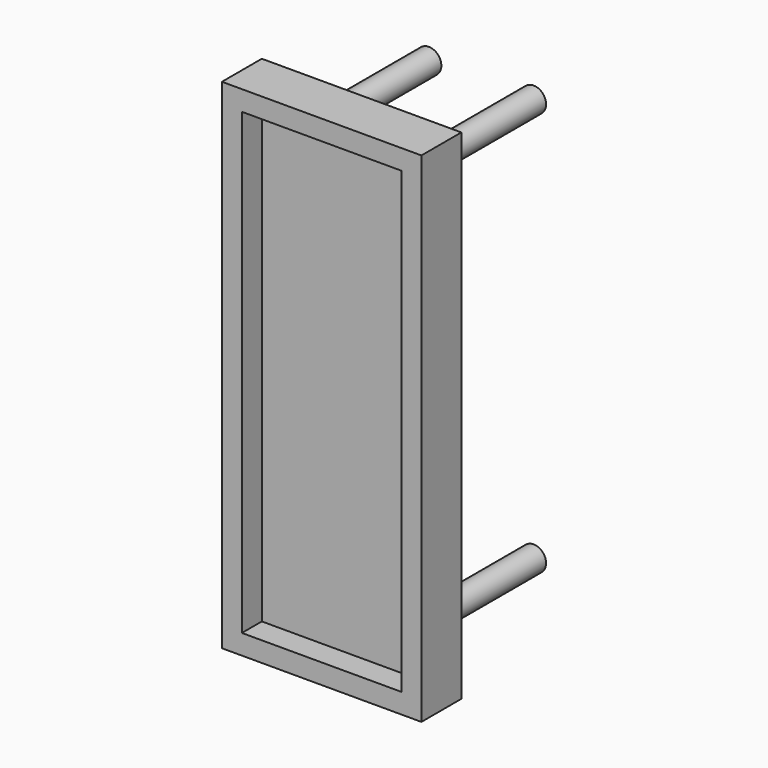
from build123d import *

# Parameters (mm, degrees)
F0_W     = 40.64
F0_H     = 116.84
F1_DEPTH = 6.35
F0_W_2   = 50.8
F0_H_2   = 127
F2_DEPTH = 12.7
F3_R     = 3.175
F4_DEPTH = 38.1


with BuildPart() as f1:
    # F0 (on Front) → F1 (new body)
    with BuildSketch(Plane.XZ):
        Rectangle(F0_W, F0_H)
    extrude(amount=F1_DEPTH)

    # F0 (on Front) → F2 (join)
    with BuildSketch(Plane.XZ):
        Rectangle(F0_W_2, F0_H_2)
        Rectangle(F0_W, F0_H, mode=Mode.SUBTRACT)
    extrude(amount=F2_DEPTH)

    # F3 (on face) → F4 (join)
    with BuildSketch(Plane.XZ):
        with Locations((-13.335, -51.435)):
            Circle(F3_R)
        with Locations((13.335, -51.435)):
            Circle(F3_R)
        with Locations((13.335, 51.435)):
            Circle(F3_R)
        with Locations((-13.335, 51.435)):
            Circle(F3_R)
    extrude(amount=-F4_DEPTH)


solid = f1.part
